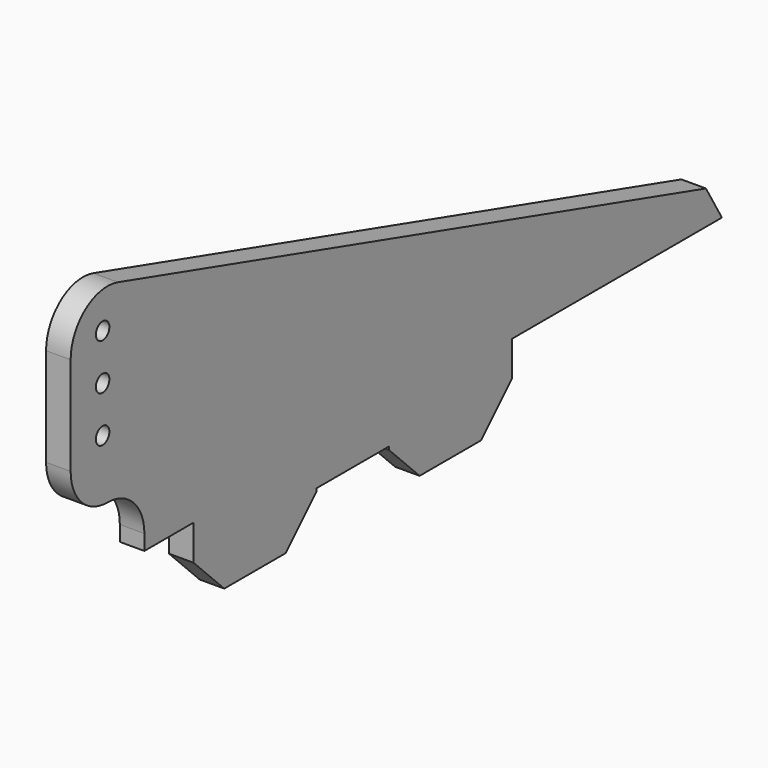
from build123d import *

# Parameters (mm, degrees)
F1_DEPTH = 0.8
F2_SIZE  = 2.5
F4_D     = 1.1


with BuildPart() as f1:
    # F0 (on Right) → F1 (new body, symmetric)
    with BuildSketch(Plane.YZ):
        with BuildLine():
            Line((3.4, 1), (3.4, 0))
            Line((3.4, 0), (7.4, 0))
            Line((7.4, 0), (7.4, -4.8))
            Line((7.4, -4.8), (17.4, -4.8))
            Line((17.4, -4.8), (17.4, -2.1))
            Line((17.4, -2.1), (23.3, -2.1))
            Line((23.3, -2.1), (23.3, -4.8))
            Line((23.3, -4.8), (33.3, -4.8))
            Line((33.3, -4.8), (33.3, 0))
            Line((33.3, 0), (50.4, 0))
            Line((50.4, 0), (49.1, 2.2))
            Line((49.1, 2.2), (1.2466947794, 16.278038907))
            ThreePointArc((1.2466947794, 16.278038907), (-1.3972083437, 15.8020912075), (-2.6, 13.4))
            Line((-2.6, 13.4), (-2.6, 7))
            ThreePointArc((-2.6, 7), (-1.7213203436, 4.8786796564), (0.4, 4))
            ThreePointArc((0.4, 4), (2.5213203436, 3.1213203436), (3.4, 1))
        make_face()
    extrude(amount=F1_DEPTH, both=True)

    # F2
    f2_edges = [f1.edges().sort_by_distance(p)[0] for p in [
        (0, 7.4, -4.8),
        (0, 23.3, -4.8),
        (0, 17.4, -4.8),
        (0, 33.3, -4.8),
    ]]
    chamfer(f2_edges, length=F2_SIZE)

    # F4 (through all)
    with Locations(Plane.YZ.offset(0.8)):
        with Locations((0, 14), (0, 11), (0, 8)):
            Hole(F4_D / 2)


solid = f1.part
